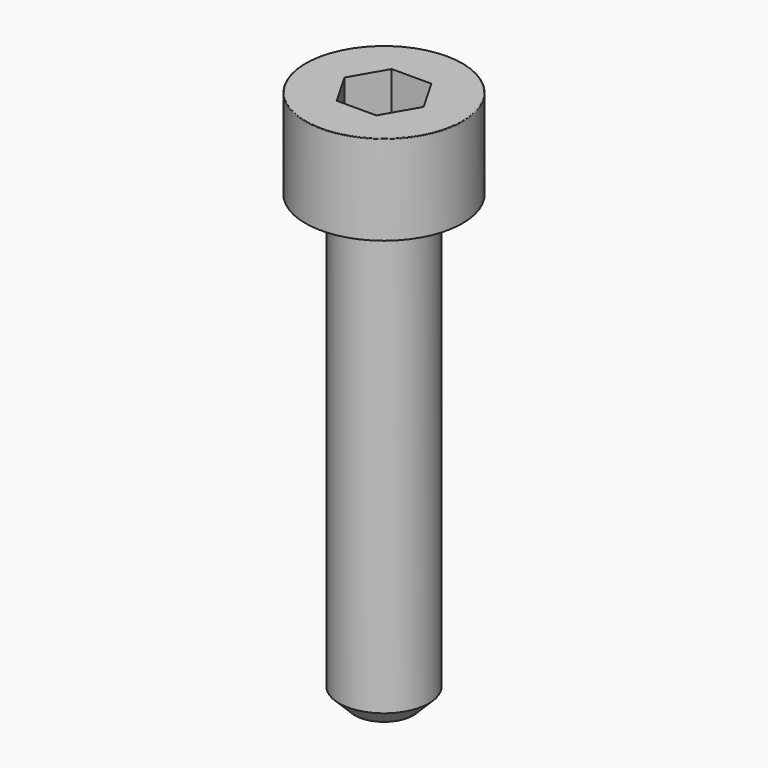
from build123d import *

# Parameters (mm, degrees)
POCKET_DEPTH = 3.06


with BuildPart() as part:
    # Sketch → Revolve (revolve)
    with BuildSketch(Plane.YZ):
        with BuildLine():
            Line((1.999, 0), (3.5, 0))
            Line((3.5, 0), (3.5, 3.97229))
            ThreePointArc((3.5, 3.97229), (3.491884, 3.991884), (3.47229, 4))
            Line((3.47229, 4), (0, 4))
            Line((0, -20), (0, 4))
            Line((1.3, -20), (0, -20))
            Line((2, -19.3), (1.3, -20))
            Line((2, -0.2), (2, -19.3))
            Line((1.999, 0), (2, -0.2))
        make_face()
    revolve(axis=Axis((0, 0, 0), (0, 0, 1)))

    # Sketch001 → Pocket (cut)
    with BuildSketch(Plane.XY.offset(4)):
        Polygon((1.766692, 0), (0.883346, 1.53), (-0.883346, 1.53), (-1.766692, 0), (-0.883346, -1.53), (0.883346, -1.53), align=None)
    extrude(amount=-POCKET_DEPTH, mode=Mode.SUBTRACT)


solid = part.part
